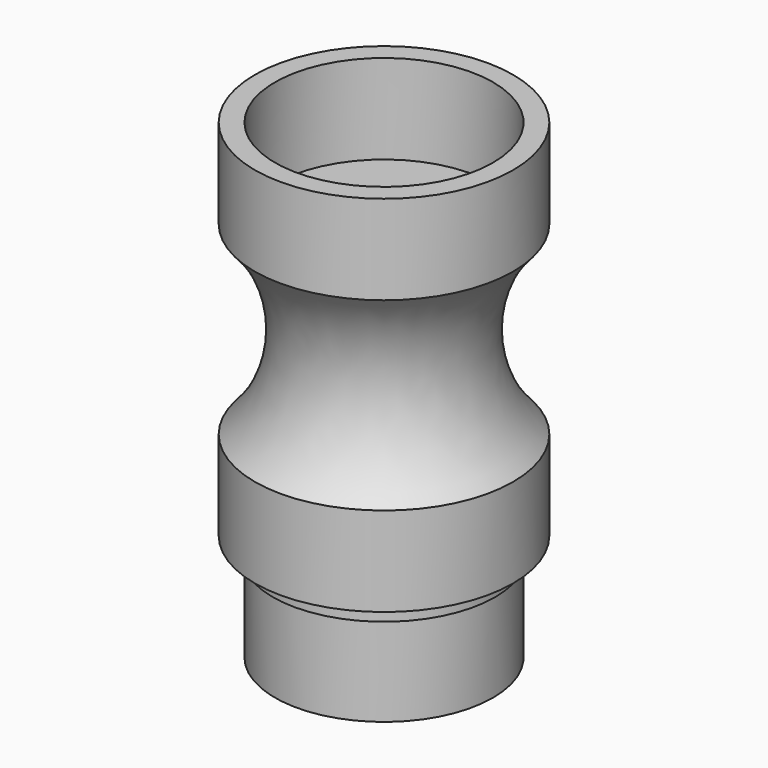
from build123d import *


with BuildPart() as f1:
    # F0 (on Front) → F1 (revolve)
    with BuildSketch(Plane.XZ):
        with BuildLine():
            ThreePointArc((18.3515, -13.887689), (13.080526, -0.733186), (18.3515, 12.421317))
            Line((18.3515, 12.421317), (18.3515, 25.121317))
            Line((18.3515, 25.121317), (15.494, 25.121317))
            Line((15.494, 25.121317), (15.494, 12.421317))
            Line((15.494, 12.421317), (6.35, 12.421317))
            Line((6.35, 12.421317), (6.35, -41.827689))
            Line((6.35, -41.827689), (15.494, -41.827689))
            Line((15.494, -41.827689), (15.494, -29.127689))
            Line((15.494, -29.127689), (15.8115, -29.127689))
            Line((15.8115, -29.127689), (15.8115, -26.587689))
            Line((15.8115, -26.587689), (18.3515, -26.587689))
            Line((18.3515, -26.587689), (18.3515, -13.887689))
        make_face()
    revolve(axis=Axis((0, 0, -9.998942), (0, 0, 1)))


solid = f1.part
